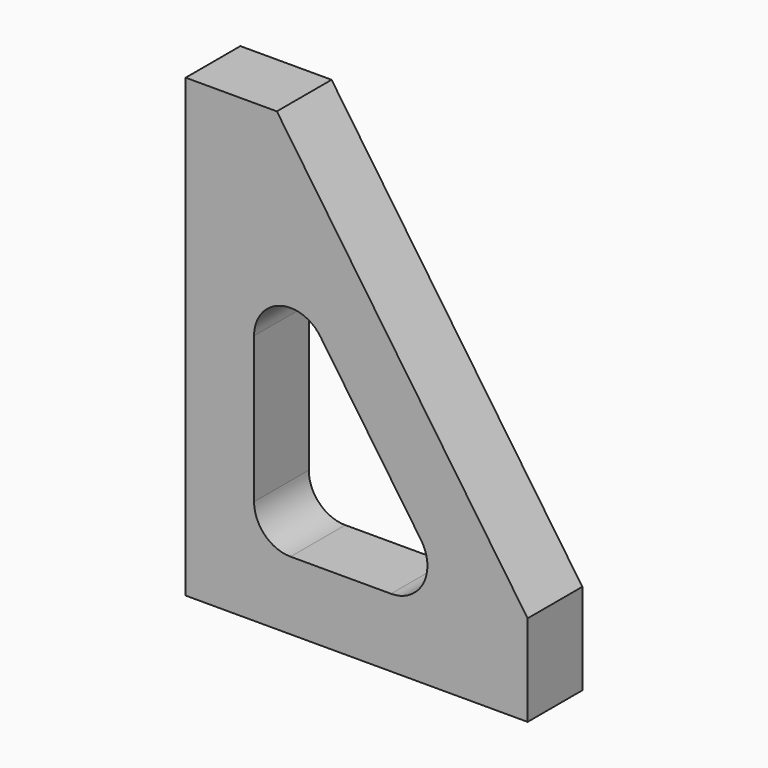
from build123d import *

# Parameters (mm, degrees)
F2_DEPTH = 19.05
F3_DEPTH = 19.051
F4_R     = 10.16
F5_R     = 10.16


with BuildPart() as f2:
    # F0 (on Front) → F2 (new body)
    with BuildSketch(Plane.XZ):
        Polygon((0, 95.157677), (-25.4, 95.157677), (-25.4, -31.842323), (69.85, -31.842323), (69.85, -6.442323), align=None)
    extrude(amount=-F2_DEPTH)

    # F1 (on face) → F3 (cut, through all)
    with BuildSketch(Plane.XZ):
        Polygon((51.097869, -12.792323), (-6.35, 70.768214), (-6.35, -12.792323), align=None)
    extrude(amount=-F3_DEPTH, mode=Mode.SUBTRACT)

    # F4
    f4_edges = [f2.edges().sort_by_distance(p)[0] for p in [
        (-6.35, 9.525, -12.792323),
        (51.097869, 9.525, -12.792323),
    ]]
    fillet(f4_edges, radius=F4_R)

    # F5
    f5_edges = [f2.edges().sort_by_distance(p)[0] for p in [
        (-6.35, 9.525, 70.768214),
    ]]
    fillet(f5_edges, radius=F5_R)


solid = f2.part
